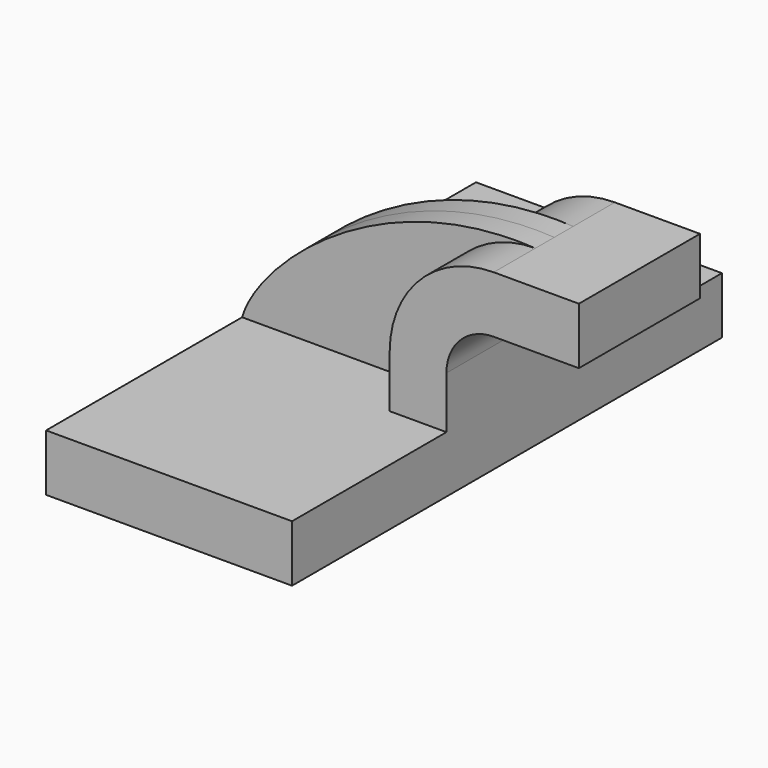
from build123d import *

# Parameters (mm, degrees)
F1_DEPTH = 90.17
F0_W     = 25.4
F0_H     = 19.05
F2_DEPTH = 25.4
F3_DEPTH = 7.9375


with BuildPart() as f1:
    # F0 (on Front) → F1 (new body, symmetric)
    with BuildSketch(Plane.XZ):
        Polygon((41.275, -9.525), (41.275, 9.525), (22.225, 9.525), (-41.275, 9.525), (-41.275, -9.525), align=None)
    extrude(amount=F1_DEPTH, both=True)

    # F0 (on Front) → F2 (join, symmetric)
    with BuildSketch(Plane.XZ):
        with BuildLine():
            Line((22.225, 9.525), (41.275, 9.525))
            Line((41.275, 9.525), (41.275, 27.0002))
            ThreePointArc((41.275, 27.0002), (45.9246798487, 38.2255201513), (57.15, 42.8752))
            Line((57.15, 42.8752), (60.325, 42.8752))
            Line((60.325, 42.8752), (60.325, 61.9252))
            Line((60.325, 61.9252), (57.15, 61.9252))
            ThreePointArc((57.15, 61.9252), (32.4542956671, 51.6959043329), (22.225, 27.0002))
            Line((22.225, 27.0002), (22.225, 9.525))
        make_face()
        with Locations((73.025, 52.4002)):
            Rectangle(F0_W, F0_H)
    extrude(amount=F2_DEPTH, both=True)

    # F0 (on Front) → F3 (join, symmetric)
    with BuildSketch(Plane.XZ):
        with BuildLine():
            Line((-41.275, 9.525), (22.225, 9.525))
            Line((22.225, 9.525), (22.225, 27.0002))
            ThreePointArc((22.225, 27.0002), (32.4542956671, 51.6959043329), (57.15, 61.9252))
            add(Edge.make_bspline(
                [(-41.275, 9.525), (-35.8186467643, 28.3691705971), (4.2723575607, 65.0347471237), (57.15, 61.9252)],
                knots=[0, 0, 0, 0, 111.5045361635, 111.5045361635, 111.5045361635, 111.5045361635], degree=3))
        make_face()
    extrude(amount=F3_DEPTH, both=True)


solid = f1.part
